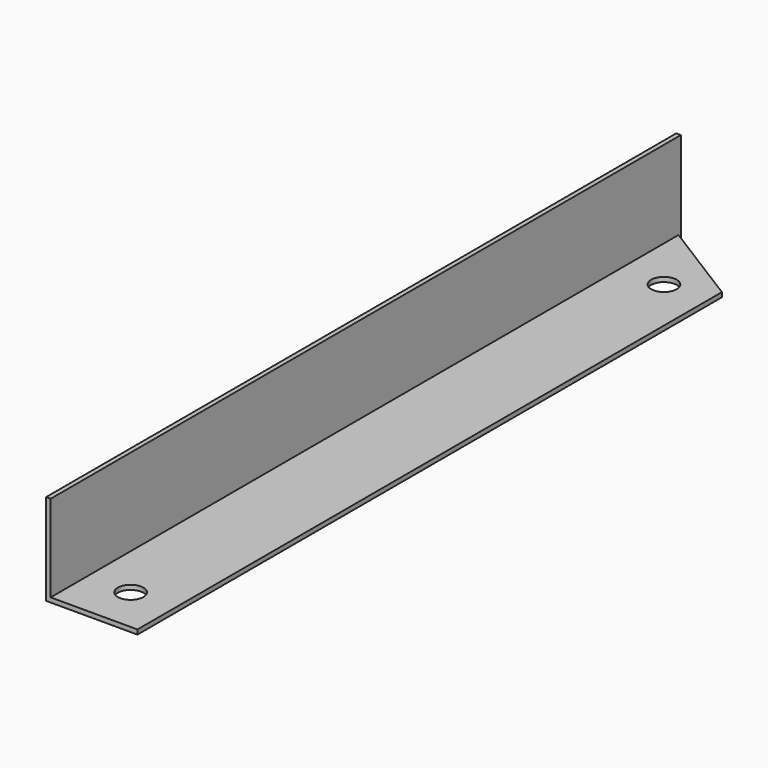
from build123d import *

# Parameters (mm, degrees)
F1_DEPTH = 862
F2_R     = 14
F3_DEPTH = 5
F5_DEPTH = 5


with BuildPart() as f1:
    # F0 (on Front) → F1 (new body)
    with BuildSketch(Plane.XZ):
        Polygon((0, 100), (0, 0), (100, 0), (100, 5), (5, 5), (5, 100), align=None)
    extrude(amount=F1_DEPTH)

    # F2 (on face) → F3 (cut, through all)
    with BuildSketch(Plane.XY.offset(5)):
        with Locations((52.5, -82.4)):
            Circle(F2_R)
        with Locations((52.5, -812)):
            Circle(F2_R)
    extrude(amount=-F3_DEPTH, mode=Mode.SUBTRACT)

    # F4 (on face) → F5 (cut)
    with BuildSketch(Plane.XY.offset(5)):
        Polygon((5, -3.124347), (100, -62.486935), (100, 0), (5, 0), align=None)
    extrude(amount=-F5_DEPTH, mode=Mode.SUBTRACT)


solid = f1.part
